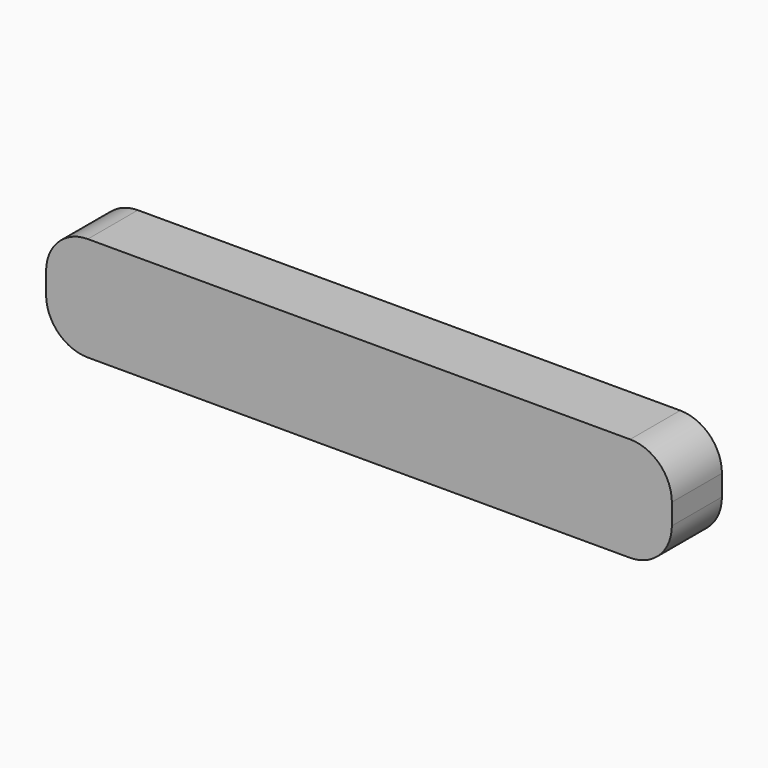
from build123d import *

# Parameters (mm, degrees)
F0_W          = 300
F0_H          = 50
F1_DEPTH      = 15
F1_DEPTH_BACK = 15
F2_R          = 20


with BuildPart() as f1:
    # F0 (on Front) → F1 (new body, two sides)
    with BuildSketch(Plane.XZ) as f1_sk:
        Rectangle(F0_W, F0_H)
    extrude(amount=F1_DEPTH)
    extrude(f1_sk.sketch, amount=-F1_DEPTH_BACK)

    # F2
    f2_edges = [f1.edges().sort_by_distance(p)[0] for p in [
        (150, 0, 25),
        (150, 0, -25),
        (-150, 0, 25),
        (-150, 0, -25),
    ]]
    fillet(f2_edges, radius=F2_R)


solid = f1.part
